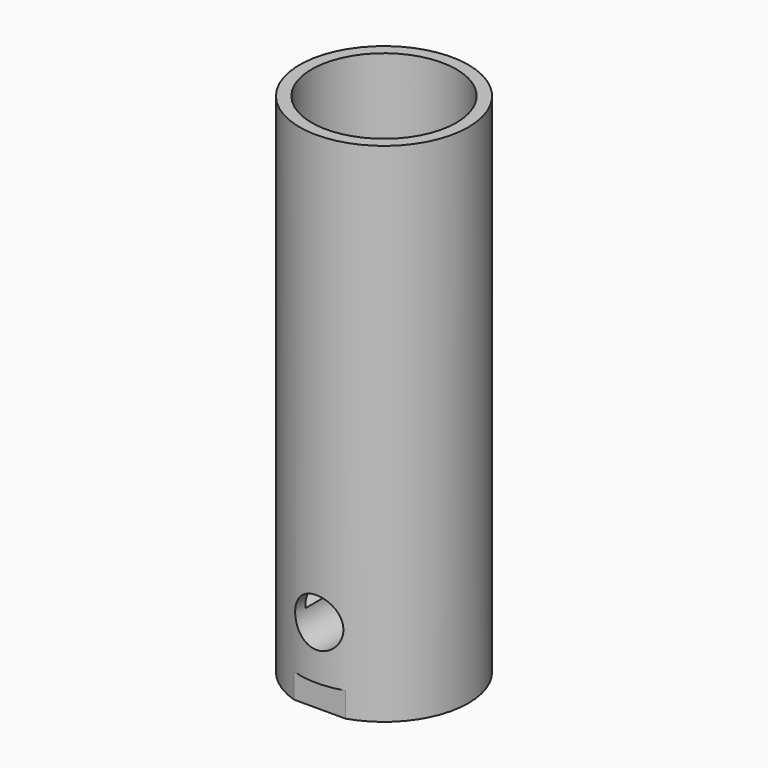
from build123d import *

# Parameters (mm, degrees)
F0_R     = 525
F0_R_2   = 450
F1_DEPTH = 3000
F3_DEPTH = 500
F4_W     = 1649.553597
F4_H     = 1255.804241
F4_R     = 525
F5_DEPTH = 7000
F6_R     = 150
F7_DEPTH = 550


with BuildPart() as f1:
    # F0 (on Top) → F1 (new body)
    with BuildSketch(Plane.XY):
        Circle(F0_R)
        Circle(F0_R_2, mode=Mode.SUBTRACT)
    extrude(amount=F1_DEPTH)

    # F2 (on Front) → F3 (join, symmetric)
    with BuildSketch(Plane.XZ):
        Polygon((736.250953, 476.870411), (0, 279.592563), (-736.250953, 476.870411), (-736.250953, -153.325768), (736.250953, -153.325768), align=None)
    extrude(amount=F3_DEPTH, both=True)

    # F4 (on face) → F5 (cut)
    with BuildSketch(Plane.XY.offset(3000)):
        with Locations((44.825762, 18.989593)):
            Rectangle(F4_W, F4_H)
        Circle(F4_R, mode=Mode.SUBTRACT)
    extrude(amount=-F5_DEPTH, mode=Mode.SUBTRACT)

    # F6 (on Front) → F7 (cut, symmetric)
    with BuildSketch(Plane.XZ):
        with Locations((0, 330.988973)):
            Circle(F6_R)
    extrude(amount=F7_DEPTH, both=True, mode=Mode.SUBTRACT)


solid = f1.part
